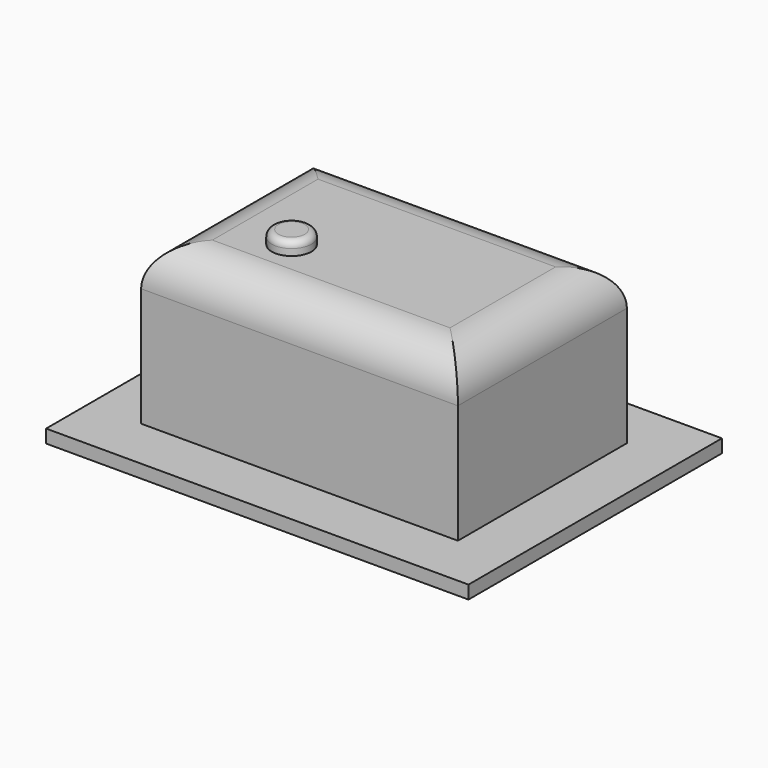
from build123d import *

# Parameters (mm, degrees)
SKETCH_W     = 16
SKETCH_H     = 12
PAD_DEPTH    = 0.5
SKETCH001_W  = 12
SKETCH001_H  = 8
PAD001_DEPTH = 6
FILLET_R     = 1.5
SKETCH002_R  = 0.75
PAD002_DEPTH = 0.5
FILLET001_R  = 0.25


with BuildPart() as pad:
    # Sketch → Pad (new body)
    with BuildSketch(Plane.XY):
        with Locations((8, 6)):
            Rectangle(SKETCH_W, SKETCH_H)
    extrude(amount=PAD_DEPTH)


with BuildPart() as fillet_body:
    # Sketch001 → Pad001 (new body)
    with BuildSketch(Plane.XY.offset(0.5)):
        with Locations((8, 6)):
            Rectangle(SKETCH001_W, SKETCH001_H)
    extrude(amount=PAD001_DEPTH)

    # Fillet
    fillet_edges = [fillet_body.edges().sort_by_distance(p)[0] for p in [
        (8, 2, 6.5),
        (14, 6, 6.5),
        (8, 10, 6.5),
        (2, 6, 6.5),
    ]]
    fillet(fillet_edges, radius=FILLET_R)


with BuildPart() as fillet001:
    # Sketch002 → Pad002 (new body)
    with BuildSketch(Plane.XY.offset(6.5)):
        with Locations((5.5, 4.75)):
            Circle(SKETCH002_R)
    extrude(amount=PAD002_DEPTH)

    # Fillet001
    fillet001_edges = [fillet001.edges().sort_by_distance(p)[0] for p in [
        (4.75, 4.75, 7),
    ]]
    fillet(fillet001_edges, radius=FILLET001_R)


solid = Compound([pad.part, fillet_body.part, fillet001.part])
